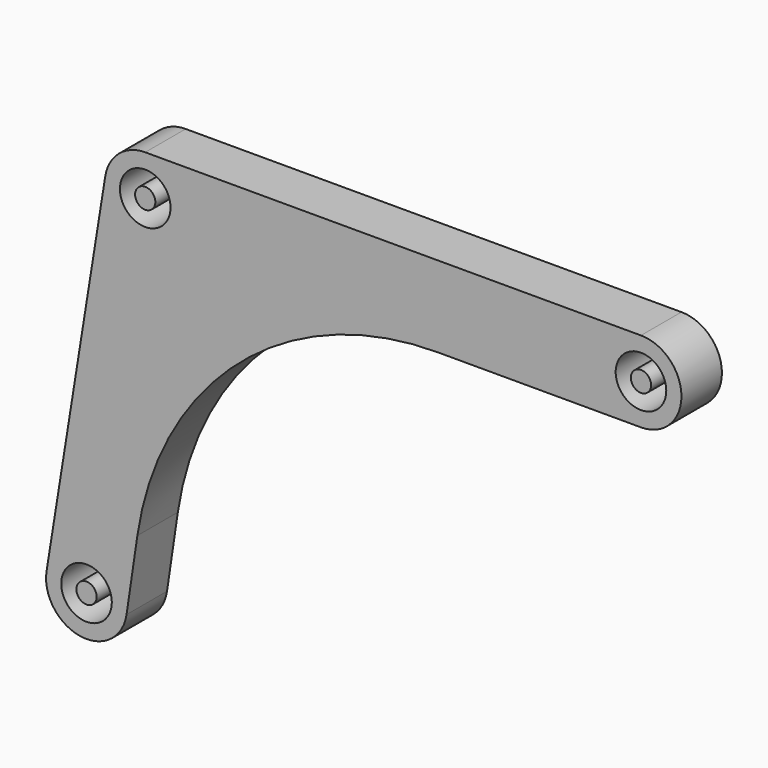
from build123d import *

# Parameters (mm, degrees)
F0_R     = 2.5
F0_R_2   = 1
F1_DEPTH = 2.5


with BuildPart() as f1:
    # F0 (on Front) → F1 (new body, symmetric)
    with BuildSketch(Plane.XZ):
        with BuildLine():
            Line((49, 4), (0, 4))
            ThreePointArc((0, 4), (-2.595236, 3.043805), (-3.949696, 0.632375))
            Line((-3.949696, 0.632375), (-9.751737, -35.60609))
            ThreePointArc((-9.751737, -35.60609), (-6.411156, -40.191815), (-1.845174, -36.824299))
            Line((-1.845174, -36.824299), (-0.776504, -29.606244))
            ThreePointArc((-0.776504, -29.606244), (9.301692, -11.286428), (28.9, -4))
            Line((28.9, -4), (49, -4))
            ThreePointArc((49, -4), (53, 0), (49, 4))
        make_face()
        with Locations((-5.802041, -36.238465)):
            Circle(F0_R, mode=Mode.SUBTRACT)
        Circle(F0_R, mode=Mode.SUBTRACT)
        with Locations((49, 0)):
            Circle(F0_R, mode=Mode.SUBTRACT)
        with Locations((49, 0)):
            Circle(F0_R_2)
        Circle(F0_R_2)
        with Locations((-5.802041, -36.238465)):
            Circle(F0_R_2)
    extrude(amount=F1_DEPTH, both=True)


solid = f1.part
